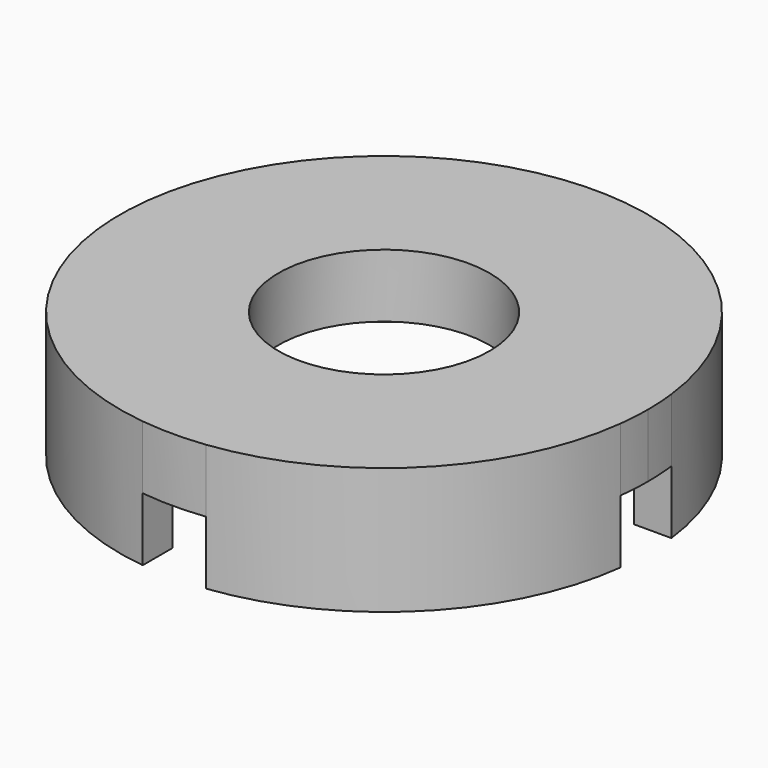
from build123d import *

# Parameters (mm, degrees)
F0_R     = 10
F1_DEPTH = 12
F2_DEPTH = 6
F3_DEPTH = 6


with BuildPart() as f1:
    # F0 (on Top) → F1 (new body)
    with BuildSketch(Plane.XY):
        with BuildLine():
            ThreePointArc((21.5, 0), (21.4473527551, 1.5036820799), (21.289668856, 3))
            ThreePointArc((21.289668856, 3), (15.2027957955, 15.2027957955), (3, 21.289668856))
            ThreePointArc((3, 21.289668856), (0, 21.5), (-3, 21.289668856))
            ThreePointArc((-3, 21.289668856), (-15.2027957955, 15.2027957955), (-21.289668856, 3))
            ThreePointArc((-21.289668856, 3), (-21.5, 0), (-21.289668856, -3))
            ThreePointArc((-21.289668856, -3), (-15.2027957955, -15.2027957955), (-3, -21.289668856))
            ThreePointArc((-3, -21.289668856), (0, -21.5), (3, -21.289668856))
            ThreePointArc((3, -21.289668856), (15.2027957955, -15.2027957955), (21.289668856, -3))
            ThreePointArc((21.289668856, -3), (21.4473527551, -1.5036820799), (21.5, 0))
        make_face()
        Circle(F0_R, mode=Mode.SUBTRACT)
        with BuildLine():
            Line((21.289668856, 3), (24.819347292, 3))
            ThreePointArc((24.819347292, 3), (17.6776695297, 17.6776695297), (3, 24.819347292))
            Line((3, 24.819347292), (3, 21.289668856))
            ThreePointArc((3, 21.289668856), (15.2027957955, 15.2027957955), (21.289668856, 3))
        make_face()
        with BuildLine():
            Line((3, 21.289668856), (3, 24.819347292))
            ThreePointArc((3, 24.819347292), (0, 25), (-3, 24.819347292))
            Line((-3, 24.819347292), (-3, 21.289668856))
            ThreePointArc((-3, 21.289668856), (0, 21.5), (3, 21.289668856))
        make_face()
        with BuildLine():
            Line((-3, 21.289668856), (-3, 24.819347292))
            ThreePointArc((-3, 24.819347292), (-17.6776695297, 17.6776695297), (-24.819347292, 3))
            Line((-24.819347292, 3), (-21.289668856, 3))
            ThreePointArc((-21.289668856, 3), (-15.2027957955, 15.2027957955), (-3, 21.289668856))
        make_face()
        with BuildLine():
            Line((-21.289668856, 3), (-24.819347292, 3))
            ThreePointArc((-24.819347292, 3), (-25, 0), (-24.819347292, -3))
            Line((-24.819347292, -3), (-21.289668856, -3))
            ThreePointArc((-21.289668856, -3), (-21.5, 0), (-21.289668856, 3))
        make_face()
        with BuildLine():
            ThreePointArc((-24.819347292, -3), (-17.6776695297, -17.6776695297), (-3, -24.819347292))
            Line((-3, -24.819347292), (-3, -21.289668856))
            ThreePointArc((-3, -21.289668856), (-15.2027957955, -15.2027957955), (-21.289668856, -3))
            Line((-21.289668856, -3), (-24.819347292, -3))
        make_face()
        with BuildLine():
            ThreePointArc((-3, -24.819347292), (0, -25), (3, -24.819347292))
            Line((3, -24.819347292), (3, -21.289668856))
            ThreePointArc((3, -21.289668856), (0, -21.5), (-3, -21.289668856))
            Line((-3, -21.289668856), (-3, -24.819347292))
        make_face()
        with BuildLine():
            ThreePointArc((3, -24.819347292), (17.6776695297, -17.6776695297), (24.819347292, -3))
            Line((24.819347292, -3), (21.289668856, -3))
            ThreePointArc((21.289668856, -3), (15.2027957955, -15.2027957955), (3, -21.289668856))
            Line((3, -21.289668856), (3, -24.819347292))
        make_face()
        with BuildLine():
            ThreePointArc((24.819347292, -3), (24.9547959549, -1.5027171558), (25, 0))
            ThreePointArc((25, 0), (24.9547959549, 1.5027171558), (24.819347292, 3))
            Line((24.819347292, 3), (21.289668856, 3))
            ThreePointArc((21.289668856, 3), (21.4473527551, 1.5036820799), (21.5, 0))
            ThreePointArc((21.5, 0), (21.4473527551, -1.5036820799), (21.289668856, -3))
            Line((21.289668856, -3), (24.819347292, -3))
        make_face()
    extrude(amount=F1_DEPTH)

    # F0 (on Top) → F2 (cut)
    with BuildSketch(Plane.XY):
        with BuildLine():
            ThreePointArc((21.5, 0), (21.4473527551, 1.5036820799), (21.289668856, 3))
            ThreePointArc((21.289668856, 3), (15.2027957955, 15.2027957955), (3, 21.289668856))
            ThreePointArc((3, 21.289668856), (0, 21.5), (-3, 21.289668856))
            ThreePointArc((-3, 21.289668856), (-15.2027957955, 15.2027957955), (-21.289668856, 3))
            ThreePointArc((-21.289668856, 3), (-21.5, 0), (-21.289668856, -3))
            ThreePointArc((-21.289668856, -3), (-15.2027957955, -15.2027957955), (-3, -21.289668856))
            ThreePointArc((-3, -21.289668856), (0, -21.5), (3, -21.289668856))
            ThreePointArc((3, -21.289668856), (15.2027957955, -15.2027957955), (21.289668856, -3))
            ThreePointArc((21.289668856, -3), (21.4473527551, -1.5036820799), (21.5, 0))
        make_face()
        Circle(F0_R, mode=Mode.SUBTRACT)
    extrude(amount=F2_DEPTH, mode=Mode.SUBTRACT)

    # F0 (on Top) → F3 (cut)
    with BuildSketch(Plane.XY):
        with BuildLine():
            Line((3, 21.289668856), (3, 24.819347292))
            ThreePointArc((3, 24.819347292), (0, 25), (-3, 24.819347292))
            Line((-3, 24.819347292), (-3, 21.289668856))
            ThreePointArc((-3, 21.289668856), (0, 21.5), (3, 21.289668856))
        make_face()
        with BuildLine():
            ThreePointArc((-3, -24.819347292), (0, -25), (3, -24.819347292))
            Line((3, -24.819347292), (3, -21.289668856))
            ThreePointArc((3, -21.289668856), (0, -21.5), (-3, -21.289668856))
            Line((-3, -21.289668856), (-3, -24.819347292))
        make_face()
        with BuildLine():
            Line((-21.289668856, 3), (-24.819347292, 3))
            ThreePointArc((-24.819347292, 3), (-25, 0), (-24.819347292, -3))
            Line((-24.819347292, -3), (-21.289668856, -3))
            ThreePointArc((-21.289668856, -3), (-21.5, 0), (-21.289668856, 3))
        make_face()
        with BuildLine():
            ThreePointArc((24.819347292, -3), (24.9547959549, -1.5027171558), (25, 0))
            ThreePointArc((25, 0), (24.9547959549, 1.5027171558), (24.819347292, 3))
            Line((24.819347292, 3), (21.289668856, 3))
            ThreePointArc((21.289668856, 3), (21.4473527551, 1.5036820799), (21.5, 0))
            ThreePointArc((21.5, 0), (21.4473527551, -1.5036820799), (21.289668856, -3))
            Line((21.289668856, -3), (24.819347292, -3))
        make_face()
    extrude(amount=F3_DEPTH, mode=Mode.SUBTRACT)


solid = f1.part
